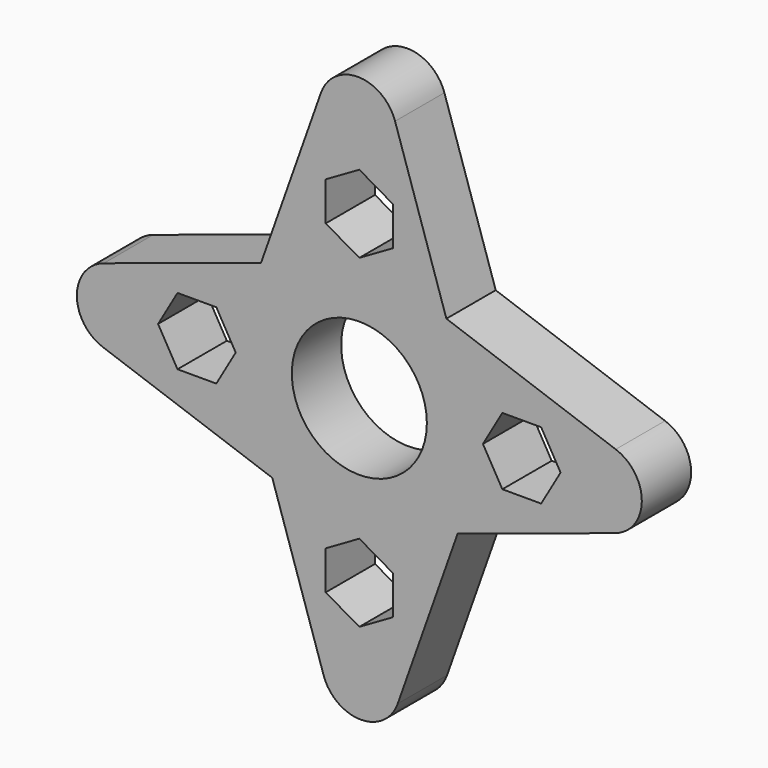
from build123d import *

# Parameters (mm, degrees)
F0_R     = 10.95
F1_DEPTH = 10


with BuildPart() as f1:
    # F0 (on Front) → F1 (new body)
    with BuildSketch(Plane.XZ):
        with BuildLine():
            Line((-6.227786, 41.574522), (-15.947611, 14.116478))
            Line((-15.947611, 14.116478), (-41.427071, 5.794421))
            ThreePointArc((-41.427071, 5.794421), (-45.805064, -0.163891), (-41.574522, -6.227786))
            Line((-41.574522, -6.227786), (-14.116478, -15.947611))
            Line((-14.116478, -15.947611), (-5.794421, -41.427071))
            ThreePointArc((-5.794421, -41.427071), (0.163891, -45.805064), (6.227786, -41.574522))
            Line((6.227786, -41.574522), (15.947611, -14.116478))
            Line((15.947611, -14.116478), (41.427071, -5.794421))
            ThreePointArc((41.427071, -5.794421), (45.805064, 0.163891), (41.574522, 6.227786))
            Line((41.574522, 6.227786), (14.116478, 15.947611))
            Line((14.116478, 15.947611), (5.794421, 41.427071))
            ThreePointArc((5.794421, 41.427071), (-0.163891, 45.805064), (-6.227786, 41.574522))
        make_face()
        Polygon((-5.45, -23.189698), (0, -20.043139), (5.45, -23.189698), (5.45, -29.482816), (0, -32.629375), (-5.45, -29.482816), align=None, mode=Mode.SUBTRACT)
        Polygon((-23.189698, 5.45), (-20.043139, 0), (-23.189698, -5.45), (-29.482816, -5.45), (-32.629375, 0), (-29.482816, 5.45), align=None, mode=Mode.SUBTRACT)
        Circle(F0_R, mode=Mode.SUBTRACT)
        Polygon((0, 32.629375), (5.45, 29.482816), (5.45, 23.189698), (0, 20.043139), (-5.45, 23.189698), (-5.45, 29.482816), align=None, mode=Mode.SUBTRACT)
        Polygon((23.189698, -5.45), (20.043139, 0), (23.189698, 5.45), (29.482816, 5.45), (32.629375, 0), (29.482816, -5.45), align=None, mode=Mode.SUBTRACT)
    extrude(amount=F1_DEPTH)


solid = f1.part
